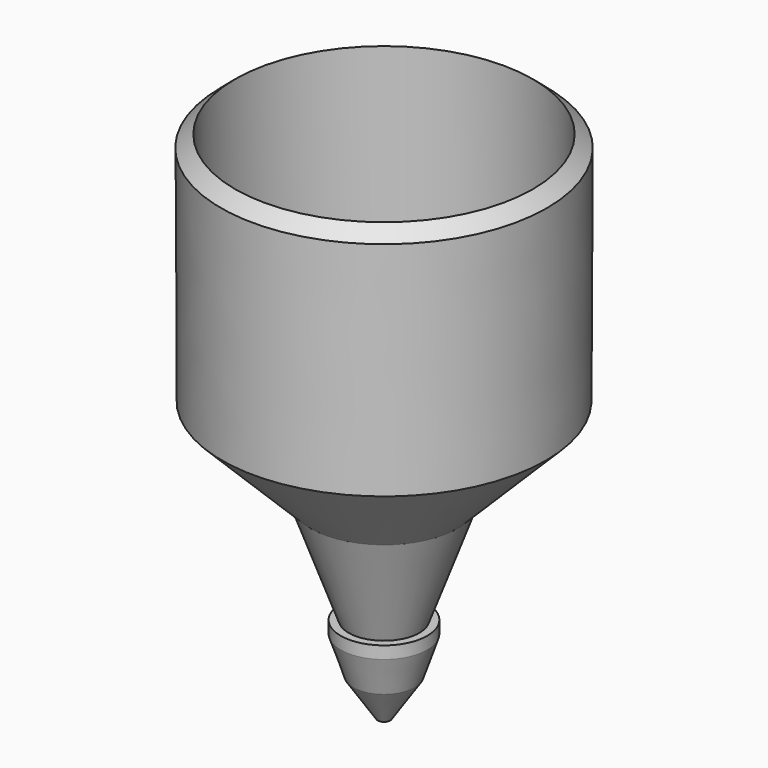
from build123d import *


with BuildPart() as f1:
    # F0 (on Front) → F1 (revolve)
    with BuildSketch(Plane.XZ):
        Polygon((-3.403124, 3.403124), (0, 0), (0, 1.5), (-9.545942, 11.045942), (-9.545942, 29.580235), (-10.686858, 28.606423), (-10.606602, 10.606602), align=None)
        Polygon((0, -5), (0, 0), (-3.403124, 3.403124), (-0.361914, -5), align=None)
        Polygon((0, -6), (0, -5), (-0.361914, -5), align=None)
        Polygon((0, -6), (-0.361914, -5), (-1, -5), (-1, -6), align=None)
        Polygon((0, -9), (0, -6), (-1, -6), align=None)
        Polygon((1.999995, -9.004474), (0, -6), (0, -9), align=None)
        Polygon((1.999995, -9.004474), (0, -9), (1.993284, -12.004467), align=None)
    revolve(axis=Axis((2.5, 0, 17.566036), (0, 0, 1)))


solid = f1.part
